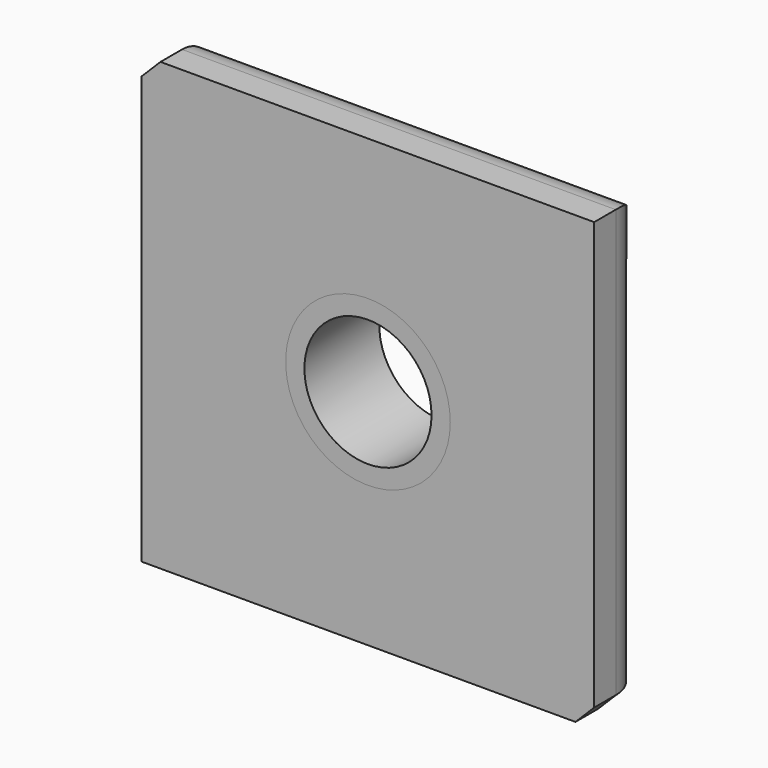
from build123d import *

# Parameters (mm, degrees)
F0_W     = 120.855168
F0_H     = 119.156398
F0_R     = 21.982176
F1_DEPTH = 17.2
F2_R     = 21.982176
F2_R_2   = 16.982176
F3_DEPTH = 25
F4_R     = 10
F5_SIZE  = 5


with BuildPart() as f1:
    # F0 (on Front) → F1 (new body)
    with BuildSketch(Plane.XZ):
        Rectangle(F0_W, F0_H)
        Circle(F0_R, mode=Mode.SUBTRACT)
    extrude(amount=-F1_DEPTH)

    # F4
    f4_edges = [f1.edges().sort_by_distance(p)[0] for p in [
        (0, 17.2, 59.578199),
        (60.427584, 17.2, 0),
    ]]
    fillet(f4_edges, radius=F4_R)

    # F5
    f5_edges = [f1.edges().sort_by_distance(p)[0] for p in [
        (-60.427584, 17.2, -5),
        (-5, 17.2, -59.578199),
    ]]
    chamfer(f5_edges, length=F5_SIZE)


with BuildPart() as f3:
    # F2 (on Front) → F3 (new body)
    with BuildSketch(Plane.XZ):
        Circle(F2_R)
        Circle(F2_R_2, mode=Mode.SUBTRACT)
    extrude(amount=-F3_DEPTH)


solid = Compound([f1.part, f3.part])
